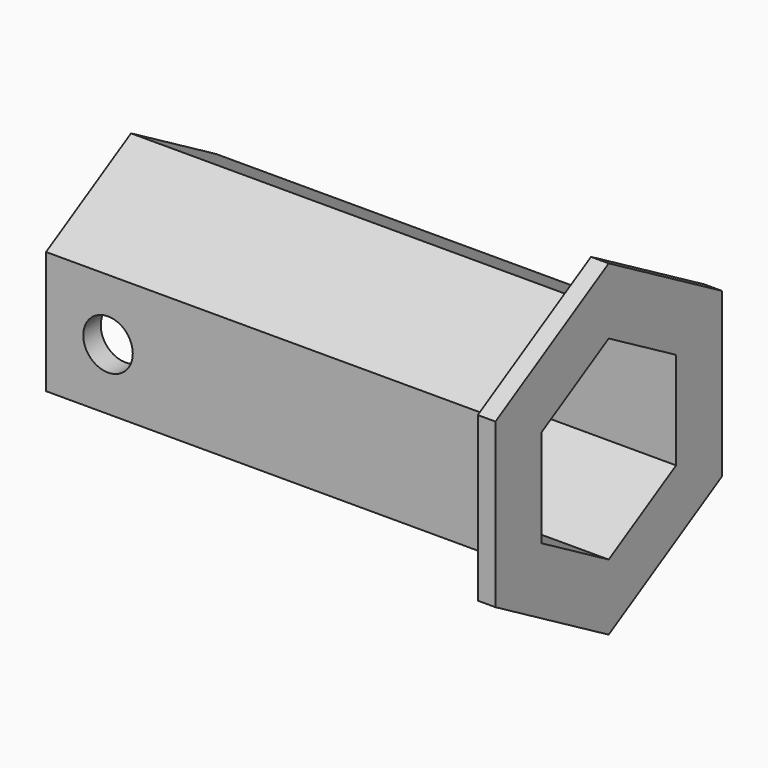
from build123d import *

# Parameters (mm, degrees)
SKETCH202_R     = 1.4
PAD127038_DEPTH = 10
PAD127037_DEPTH = 1
PAD127010_DEPTH = 26


with BuildPart() as setscrewcutout:
    # Sketch202 → Pad127038 (new body, symmetric)
    with BuildSketch(Plane(origin=(75, 0, 0), x_dir=(1, 0, 0), z_dir=(0, -1, 0))):
        with Locations((-22.5, 0)):
            Circle(SKETCH202_R)
    extrude(amount=PAD127038_DEPTH, both=True)


with BuildPart() as endcap:
    # Sketch201 → Pad127037 (new body)
    with BuildSketch(Plane.YZ.offset(75)):
        Polygon((8, 4.618802), (0, 9.237604), (-8, 4.618802), (-8, -4.618802), (0, -9.237604), (8, -4.618802), align=None)
        Polygon((0, 5.5), (-4.76314, 2.75), (-4.76314, -2.75), (0, -5.5), (4.76314, -2.75), (4.76314, 2.75), align=None, mode=Mode.SUBTRACT)
    extrude(amount=PAD127037_DEPTH)


with BuildPart() as wheelaxle:
    # Sketch172 → Pad127010 (new body)
    with BuildSketch(Plane.YZ.offset(75)):
        Polygon((6, 3.464102), (0, 6.928203), (-6, 3.464102), (-6, -3.464102), (0, -6.928203), (6, -3.464102), align=None)
        Polygon((0, 5.5), (-4.76314, 2.75), (-4.76314, -2.75), (0, -5.5), (4.76314, -2.75), (4.76314, 2.75), align=None, mode=Mode.SUBTRACT)
    extrude(amount=-PAD127010_DEPTH)

    # Fusion004020027: union EndCap
    add(endcap.part)

    # Cut007019023: cut SetScrewCutout
    add(setscrewcutout.part, mode=Mode.SUBTRACT)


solid = wheelaxle.part
